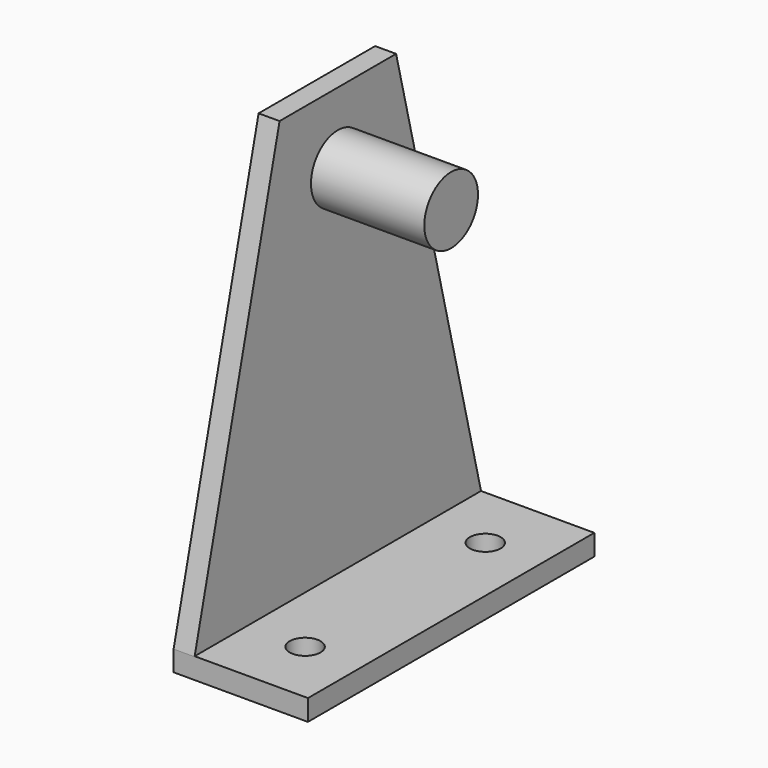
from build123d import *

# Parameters (mm, degrees)
F1_DEPTH = 25.4
F0_W     = 16.073438
F0_H     = 4.7625
F3_R     = 2.182813
F4_DEPTH = 2.9718
F6_DEPTH = 19.051


with BuildPart() as f1:
    # F0 (on Front) → F1 (new body, symmetric)
    with BuildSketch(Plane.XZ):
        Polygon((-6.737426, 63.6778), (-9.713988, 63.6778), (-9.713988, 0), (9.336012, 0), (9.336012, 2.9718), (-6.737426, 2.9718), (-6.737426, 48.8315), (-6.737426, 53.594), (-6.737426, 58.3565), align=None)
    extrude(amount=F1_DEPTH, both=True)

    # F0 (on Front) → F2 (revolve)
    with BuildSketch(Plane.XZ):
        with Locations((1.299293, 55.97525)):
            Rectangle(F0_W, F0_H)
    revolve(axis=Axis((1.299293, 0, 53.594), (-1, 0, 0)))

    # F3 (on face) → F4 (cut, through all)
    with BuildSketch(Plane.XY.offset(2.9718)):
        with Locations((1.400099, 15.977813)):
            Circle(F3_R)
        with Locations((1.400099, -15.977813)):
            Circle(F3_R)
    extrude(amount=-F4_DEPTH, mode=Mode.SUBTRACT)

    # F5 (on face) → F6 (cut, through all)
    with BuildSketch(Plane(origin=(-9.713988, 0, 0), x_dir=(0, -1, 0), z_dir=(-1, 0, 0))):
        Polygon((25.4, 63.6778), (10.33, 63.6778), (25.4, 2.91), align=None)
        Polygon((-25.4, 2.91), (-10.33, 63.6778), (-25.4, 63.6778), align=None)
    extrude(amount=-F6_DEPTH, mode=Mode.SUBTRACT)


solid = f1.part
